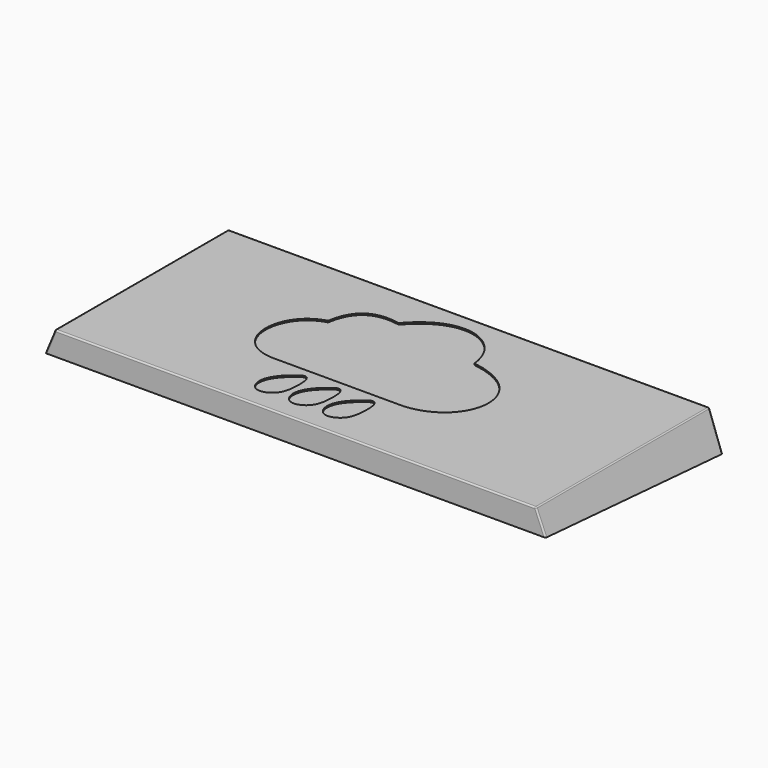
from build123d import *

# Parameters (mm, degrees)
SKETCH_W        = 326
SKETCH_H        = 146
PAD_DEPTH       = 24
SKETCH001_W     = 320
SKETCH001_H     = 138
POCKET_DEPTH    = 10
POCKET001_DEPTH = 350
SKETCH003_W     = 312
SKETCH003_H     = 130
POCKET002_DEPTH = 10
SKETCH004_W     = 312
SKETCH004_H     = 2
PAD001_DEPTH    = 8
POCKET003_DEPTH = 1
POCKET004_DEPTH = 1
SKETCH007_W     = 326
SKETCH007_H     = 24
PAD002_DEPTH    = 10
PAD003_DEPTH    = 20
PAD004_DEPTH    = 20
POCKET005_DEPTH = 160
POCKET006_DEPTH = 380
POCKET007_DEPTH = 360
FILLET_R        = 1
FILLET001_R     = 1
FILLET002_R     = 1
FILLET003_R     = 1
FILLET004_R     = 1
FILLET005_R     = 1
FILLET006_R     = 1
FILLET007_R     = 1
FILLET008_R     = 2
FILLET009_R     = 2
FILLET010_R     = 2
FILLET011_R     = 2
FILLET012_R     = 2
FILLET013_R     = 2
FILLET014_R     = 2
FILLET015_R     = 2


with BuildPart() as part:
    # Sketch → Pad (new body)
    with BuildSketch(Plane.XY):
        with Locations((163, -73)):
            Rectangle(SKETCH_W, SKETCH_H)
    extrude(amount=PAD_DEPTH)

    # Sketch001 (on Face5 of Pad) → Pocket (cut)
    with BuildSketch(Plane(origin=(0, 0, 0), x_dir=(1, 0, 0), z_dir=(0, 0, -1))):
        with Locations((163, 72)):
            Rectangle(SKETCH001_W, SKETCH001_H)
    extrude(amount=-POCKET_DEPTH, mode=Mode.SUBTRACT)

    # Sketch002 (on Face2 of Pocket) → Pocket001 (cut)
    with BuildSketch(Plane(origin=(0, 0, 0), x_dir=(0, -1, 0), z_dir=(-1, 0, 0))):
        Polygon((0, 0), (146, 0), (146, 8), align=None)
    extrude(amount=-POCKET001_DEPTH, mode=Mode.SUBTRACT)

    # Sketch003 (on Face11 of Pocket001) → Pocket002 (cut)
    with BuildSketch(Plane(origin=(0, 0, 10), x_dir=(1, 0, 0), z_dir=(0, 0, -1))):
        with Locations((163, 72)):
            Rectangle(SKETCH003_W, SKETCH003_H)
    extrude(amount=-POCKET002_DEPTH, mode=Mode.SUBTRACT)

    # Sketch004 (on Face16 of Pocket002) → Pad001 (join)
    with BuildSketch(Plane(origin=(0, 0, 20), x_dir=(1, 0, 0), z_dir=(0, 0, -1))):
        with Locations((163, 37)):
            Rectangle(SKETCH004_W, SKETCH004_H)
    extrude(amount=PAD001_DEPTH)

    # Sketch005 (on Face5 of Pad001) → Pocket003 (cut)
    with BuildSketch(Plane.XY.offset(24)):
        with BuildLine():
            add(Edge.make_bspline(
                [(197.39, -37.25), (194.95, -10.73), (163.08, 3.81), (137.21, -26.19)],
                knots=[0, 0, 0, 0, 1, 1, 1, 1], degree=3))
            add(Edge.make_bspline(
                [(137.21, -26.19), (110.49, -21.03), (106.38, -47.47)],
                knots=[0, 0, 0, 1, 1, 1], degree=2))
            add(Edge.make_bspline(
                [(106.38, -47.47), (77.83, -55.23), (78.31, -100.02), (112.19, -99.1)],
                knots=[0, 0, 0, 0, 1, 1, 1, 1], degree=3))
            Line((112.19, -99.1), (198.8, -99.1))
            add(Edge.make_bspline(
                [(197.39, -37.25), (247.04, -44.58), (238.66, -96.16), (198.8, -99.1)],
                knots=[0, 0, 0, 0, 1, 1, 1, 1], degree=3))
        make_face()
    extrude(amount=-POCKET003_DEPTH, mode=Mode.SUBTRACT)

    # Sketch006 (on Face5 of Pocket003) → Pocket004 (cut)
    with BuildSketch(Plane.XY.offset(24)):
        with BuildLine():
            add(Edge.make_bspline(
                [(134.29, -105.39), (118.6, -116.37), (120.88, -135.91), (137.06, -131.62), (140.99, -119.42), (139.96, -102.27), (134.29, -105.39)],
                knots=[0, 0, 0, 0, 0.25, 0.5, 0.75, 1, 1, 1, 1], degree=3))
        make_face()
        with BuildLine():
            add(Edge.make_bspline(
                [(157.29, -105.39), (141.6, -116.37), (143.88, -135.91), (160.06, -131.62), (163.99, -119.42), (162.96, -102.27), (157.29, -105.39)],
                knots=[0, 0, 0, 0, 0.25, 0.5, 0.75, 1, 1, 1, 1], degree=3))
        make_face()
        with BuildLine():
            add(Edge.make_bspline(
                [(180.29, -105.39), (164.6, -116.37), (166.88, -135.91), (183.06, -131.62), (186.99, -119.42), (185.96, -102.27), (180.29, -105.39)],
                knots=[0, 0, 0, 0, 0.25, 0.5, 0.75, 1, 1, 1, 1], degree=3))
        make_face()
    extrude(amount=-POCKET004_DEPTH, mode=Mode.SUBTRACT)

    # Sketch007 (on Face1 of Pocket004) → Pad002 (join)
    with BuildSketch(Plane(origin=(0, 0, 0), x_dir=(-1, 0, 0), z_dir=(0, 1, 0))):
        with Locations((-163, 12)):
            Rectangle(SKETCH007_W, SKETCH007_H)
    extrude(amount=PAD002_DEPTH)

    # Sketch009 (on Face1 of Pad002) → Pad003 (join)
    with BuildSketch(Plane(origin=(0, 0, 0), x_dir=(0, -1, 0), z_dir=(-1, 0, 0))):
        Polygon((-10, 24), (-10, 0), (0, 0), (146, 8), (146, 24), align=None)
    extrude(amount=PAD003_DEPTH)

    # Sketch010 (on Face4 of Pad003) → Pad004 (join)
    with BuildSketch(Plane.YZ.offset(326)):
        Polygon((10, 24), (10, 0), (0, 0), (-146, 8), (-146, 24), align=None)
    extrude(amount=PAD004_DEPTH)

    # Sketch011 (on Face19 of Pad004) → Pocket005 (cut)
    with BuildSketch(Plane(origin=(0, 10, 0), x_dir=(-1, 0, 0), z_dir=(0, 1, 0))):
        Polygon((10, 0), (0, 24), (62.814814, 43.289979), (90.06, 0), align=None)
    extrude(amount=-POCKET005_DEPTH, mode=Mode.SUBTRACT)

    # Sketch012 (on Face30 of Pocket005) → Pocket006 (cut)
    with BuildSketch(Plane(origin=(0, 10, 0), x_dir=(-1, 0, 0), z_dir=(0, 1, 0))):
        Polygon((-383.56, 0), (-336, 0), (-326, 24), (-386.967866, 53.431433), align=None)
    extrude(amount=-POCKET006_DEPTH, mode=Mode.SUBTRACT)

    # Sketch013 → Pocket007 (cut, symmetric)
    with BuildSketch(Plane.YZ):
        Polygon((0, 0), (3.1, 56.61), (76.09231, 25.718735), (62.818003, -34.69), align=None)
    extrude(amount=POCKET007_DEPTH, both=True, mode=Mode.SUBTRACT)

    # Fillet
    fillet_edges = [part.edges().sort_by_distance(p)[0] for p in [
        (0, 0.657128, 24),
    ]]
    fillet(fillet_edges, radius=FILLET_R)

    # Fillet001
    fillet001_edges = [part.edges().sort_by_distance(p)[0] for p in [
        (163.333333, 1.314255, 24),
    ]]
    fillet(fillet001_edges, radius=FILLET001_R)

    # Fillet002
    fillet002_edges = [part.edges().sort_by_distance(p)[0] for p in [
        (326, -73, 24),
    ]]
    fillet(fillet002_edges, radius=FILLET002_R)

    # Fillet003
    fillet003_edges = [part.edges().sort_by_distance(p)[0] for p in [
        (329.461538, -146, 15.692308),
    ]]
    fillet(fillet003_edges, radius=FILLET003_R)

    # Fillet004
    fillet004_edges = [part.edges().sort_by_distance(p)[0] for p in [
        (163, -3, 10),
    ]]
    fillet(fillet004_edges, radius=FILLET004_R)

    # Fillet005
    fillet005_edges = [part.edges().sort_by_distance(p)[0] for p in [
        (323, -72.5, 10),
    ]]
    fillet(fillet005_edges, radius=FILLET005_R)

    # Fillet006
    fillet006_edges = [part.edges().sort_by_distance(p)[0] for p in [
        (162.5, -141, 10),
    ]]
    fillet(fillet006_edges, radius=FILLET006_R)

    # Fillet007
    fillet007_edges = [part.edges().sort_by_distance(p)[0] for p in [
        (3, -72, 10),
    ]]
    fillet(fillet007_edges, radius=FILLET007_R)

    # Fillet008
    fillet008_edges = [part.edges().sort_by_distance(p)[0] for p in [
        (163, -7, 20),
    ]]
    fillet(fillet008_edges, radius=FILLET008_R)

    # Fillet009
    fillet009_edges = [part.edges().sort_by_distance(p)[0] for p in [
        (319, -7, 14),
    ]]
    fillet(fillet009_edges, radius=FILLET009_R)

    # Fillet010
    fillet010_edges = [part.edges().sort_by_distance(p)[0] for p in [
        (162, -36, 20),
    ]]
    fillet(fillet010_edges, radius=FILLET010_R)

    # Fillet011
    fillet011_edges = [part.edges().sort_by_distance(p)[0] for p in [
        (7, -21.5, 20),
    ]]
    fillet(fillet011_edges, radius=FILLET011_R)

    # Fillet012
    fillet012_edges = [part.edges().sort_by_distance(p)[0] for p in [
        (319, -38, 16),
    ]]
    fillet(fillet012_edges, radius=FILLET012_R)

    # Fillet013
    fillet013_edges = [part.edges().sort_by_distance(p)[0] for p in [
        (319, -88.5, 20),
    ]]
    fillet(fillet013_edges, radius=FILLET013_R)

    # Fillet014
    fillet014_edges = [part.edges().sort_by_distance(p)[0] for p in [
        (162, -137, 20),
    ]]
    fillet(fillet014_edges, radius=FILLET014_R)

    # Fillet015
    fillet015_edges = [part.edges().sort_by_distance(p)[0] for p in [
        (7, -87.5, 20),
    ]]
    fillet(fillet015_edges, radius=FILLET015_R)


solid = part.part
